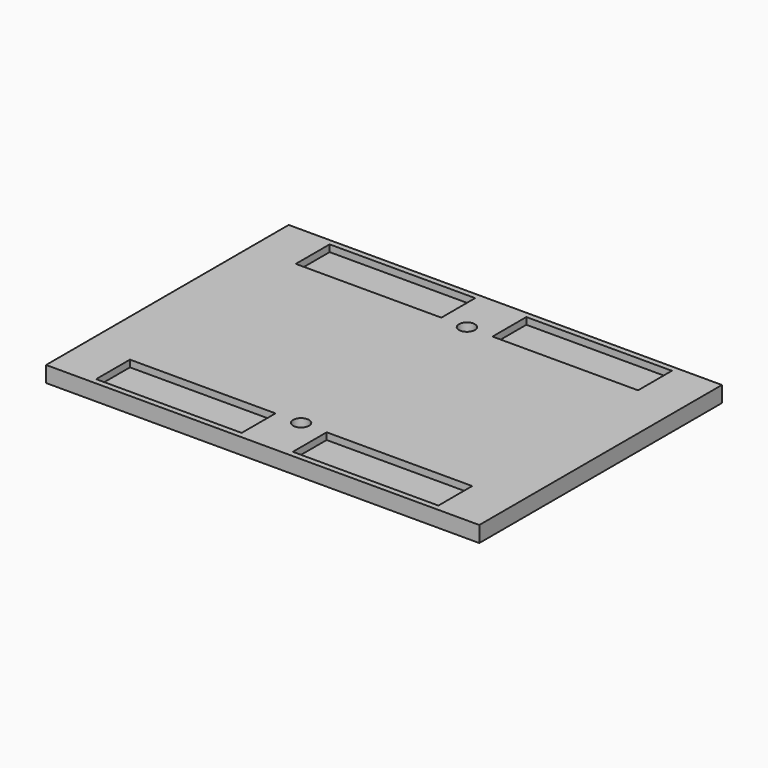
from build123d import *

# Parameters (mm, degrees)
F0_W     = 190.5
F0_H     = 133.35
F1_DEPTH = 7
F2_W     = 64
F2_H     = 18.6
F3_DEPTH = 3
F4_R     = 3.5
F5_DEPTH = 25


with BuildPart() as f1:
    # F0 (on Top) → F1 (new body)
    with BuildSketch(Plane.XY):
        Rectangle(F0_W, F0_H)
    extrude(amount=F1_DEPTH)

    # F2 (on face) → F3 (cut)
    with BuildSketch(Plane.XY.offset(7)):
        with Locations((-43.25, 54.875)):
            Rectangle(F2_W, F2_H)
        with Locations((43.25, 54.875)):
            Rectangle(F2_W, F2_H)
        with Locations((43.25, -54.875)):
            Rectangle(F2_W, F2_H)
        with Locations((-43.25, -54.875)):
            Rectangle(F2_W, F2_H)
    extrude(amount=-F3_DEPTH, mode=Mode.SUBTRACT)

    # F4 (on face) → F5 (cut)
    with BuildSketch(Plane.XY.offset(7)):
        with Locations((0, -45.575)):
            Circle(F4_R)
        with Locations((0, 45.575)):
            Circle(F4_R)
    extrude(amount=-F5_DEPTH, mode=Mode.SUBTRACT)


solid = f1.part
